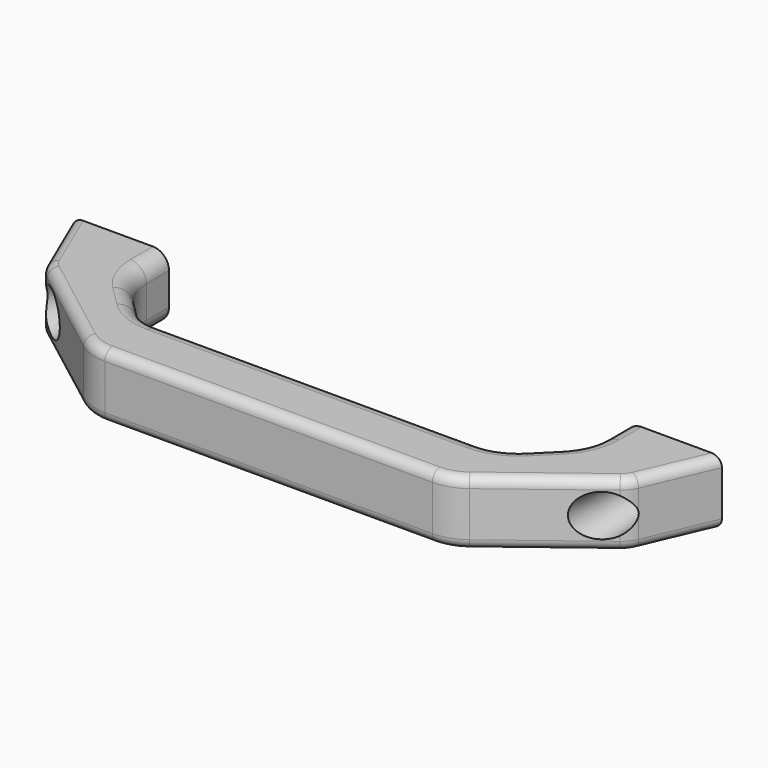
from build123d import *

# Parameters (mm, degrees)
PAD_DEPTH       = 10
SKETCH001_R     = 2.7
POCKET_DEPTH    = 40
SKETCH002_R     = 5
POCKET001_DEPTH = 24
POCKET001_TAPER = -5
FILLET_R        = 9
FILLET001_R     = 15
CHAMFER_SIZE    = 0.6
FILLET002_R     = 3
FILLET003_R     = 5


with BuildPart() as part:
    # Sketch (on XY_Plane of Origin) → Pad (new body, symmetric)
    with BuildSketch(Plane.XY):
        Polygon((71, 0), (71, -15), (56, -30), (0, -30), (0, -50), (56, -50), (91, -23.284271), (101, 0), align=None)
    extrude(amount=PAD_DEPTH, both=True)

    # Sketch001 (on Face8 of Pad) → Pocket (cut)
    with BuildSketch(Plane(origin=(0, 0, 0), x_dir=(-1, 0, 0), z_dir=(0, 1, 0))):
        with Locations((-86, 0)):
            Circle(SKETCH001_R)
    extrude(amount=-POCKET_DEPTH, mode=Mode.SUBTRACT)

    # Sketch002 (on Face2 of Pocket) → Pocket001 (cut)
    with BuildSketch(Plane(origin=(0, -10, 0), x_dir=(-1, 0, 0), z_dir=(0, 1, 0))):
        with Locations((-86, 0)):
            Circle(SKETCH002_R)
    extrude(amount=-POCKET001_DEPTH, taper=POCKET001_TAPER, mode=Mode.SUBTRACT)

    # Fillet
    fillet_edges = [part.edges().sort_by_distance(p)[0] for p in [
        (91, -23.284271, 6.800902),
        (91, -23.284271, -6.800902),
    ]]
    fillet(fillet_edges, radius=FILLET_R)

    # Fillet001
    fillet001_edges = [part.edges().sort_by_distance(p)[0] for p in [
        (56, -50, 0),
        (56, -30, 0),
        (71, -15, 0),
    ]]
    fillet(fillet001_edges, radius=FILLET001_R)

    # Chamfer
    chamfer_edges = [part.edges().sort_by_distance(p)[0] for p in [
        (88.7, 0, 0),
    ]]
    chamfer(chamfer_edges, length=CHAMFER_SIZE)

    # Mirrored: part across YZ


with BuildPart() as part_1:
    add(part.part)
    add(part.part.mirror(Plane.YZ))

    # Fillet002
    fillet002_edges = [part_1.edges().sort_by_distance(p)[0] for p in [
        (0, -50, 10),
        (0, -50, -10),
    ]]
    fillet(fillet002_edges, radius=FILLET002_R)

    # Fillet003
    fillet003_edges = [part_1.edges().sort_by_distance(p)[0] for p in [
        (0, -30, 10),
        (0, -30, -10),
    ]]
    fillet(fillet003_edges, radius=FILLET003_R)


solid = part_1.part
